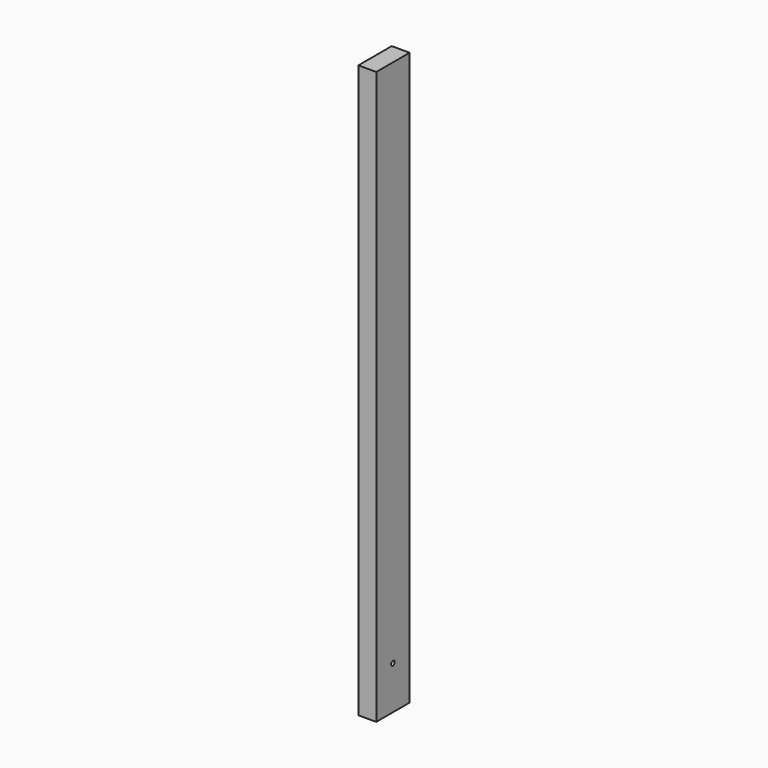
from build123d import *

# Parameters (mm, degrees)
F0_W     = 38.1
F0_H     = 88.9
F1_DEPTH = 1219.2
F3_D     = 9.525


with BuildPart() as f1:
    # F0 (on Top) → F1 (new body)
    with BuildSketch(Plane.XY):
        Rectangle(F0_W, F0_H)
    extrude(amount=-F1_DEPTH)

    # F3 (through all)
    with Locations(Plane.YZ.offset(19.05)):
        with Locations((0, -1127.125)):
            Hole(F3_D / 2)


solid = f1.part
